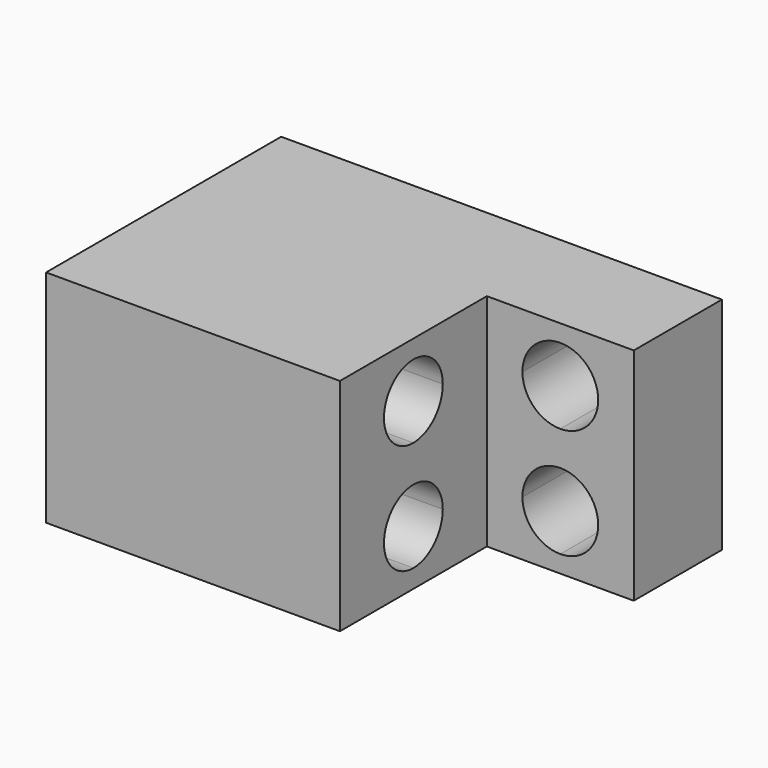
from build123d import *

# Parameters (mm, degrees)
F0_W     = 12.7
F0_H     = 9.525
F0_H_2   = 19.05
F1_DEPTH = 25.4
F2_W     = 25.4
F2_H     = 31.75
F3_DEPTH = 38.101
F5_DEPTH = 19.051
F7_DEPTH = 50.801


with BuildPart() as f1:
    # F0 (on Front) → F1 (new body, symmetric)
    with BuildSketch(Plane.XZ):
        with Locations((31.75, -14.2875)):
            Rectangle(F0_W, F0_H)
        with Locations((19.05, -14.2875)):
            Rectangle(F0_W, F0_H)
        with Locations((31.75, 0)):
            Rectangle(F0_W, F0_H_2)
        Polygon((-38.1, -19.05), (12.7, -19.05), (12.7, -9.525), (12.7, 9.525), (12.7, 19.05), (-38.1, 19.05), align=None)
        with Locations((31.75, 14.2875)):
            Rectangle(F0_W, F0_H)
        with Locations((19.05, 14.2875)):
            Rectangle(F0_W, F0_H)
        with Locations((19.05, 0)):
            Rectangle(F0_W, F0_H_2)
    extrude(amount=F1_DEPTH, both=True)

    # F2 (on face) → F3 (cut, through all)
    with BuildSketch(Plane.XY.offset(19.05)):
        with Locations((25.4, -9.525)):
            Rectangle(F2_W, F2_H)
    extrude(amount=-F3_DEPTH, mode=Mode.SUBTRACT)

    # F4 (on face) → F5 (cut, through all)
    with BuildSketch(Plane.XZ.offset(-6.35)):
        with BuildLine():
            ThreePointArc((31.9484375, 9.525), (30.0304445624, 14.1554445624), (25.4, 16.0734375))
            Line((25.4, 16.0734375), (25.4, 9.525))
            Line((25.4, 9.525), (31.9484375, 9.525))
        make_face()
        with BuildLine():
            ThreePointArc((31.9484375, -9.525), (30.0304445624, -4.8945554376), (25.4, -2.9765625))
            Line((25.4, -2.9765625), (25.4, -9.525))
            Line((25.4, -9.525), (31.9484375, -9.525))
        make_face()
        with BuildLine():
            Line((25.4, -9.525), (25.4, -2.9765625))
            ThreePointArc((25.4, -2.9765625), (20.7695554376, -4.8945554376), (18.8515625, -9.525))
            Line((18.8515625, -9.525), (25.4, -9.525))
        make_face()
        with BuildLine():
            Line((25.4, 9.525), (25.4, 16.0734375))
            ThreePointArc((25.4, 16.0734375), (20.7695554376, 14.1554445624), (18.8515625, 9.525))
            Line((18.8515625, 9.525), (25.4, 9.525))
        make_face()
        with BuildLine():
            Line((31.9484375, 9.525), (25.4, 9.525))
            Line((25.4, 9.525), (25.4, 2.9765625))
            ThreePointArc((25.4, 2.9765625), (30.0304445624, 4.8945554376), (31.9484375, 9.525))
        make_face()
        with BuildLine():
            Line((25.4, 2.9765625), (25.4, 9.525))
            Line((25.4, 9.525), (18.8515625, 9.525))
            ThreePointArc((18.8515625, 9.525), (20.7695554376, 4.8945554376), (25.4, 2.9765625))
        make_face()
        with BuildLine():
            Line((31.9484375, -9.525), (25.4, -9.525))
            Line((25.4, -9.525), (25.4, -16.0734375))
            ThreePointArc((25.4, -16.0734375), (30.0304445624, -14.1554445624), (31.9484375, -9.525))
        make_face()
        with BuildLine():
            Line((25.4, -16.0734375), (25.4, -9.525))
            Line((25.4, -9.525), (18.8515625, -9.525))
            ThreePointArc((18.8515625, -9.525), (20.7695554376, -14.1554445624), (25.4, -16.0734375))
        make_face()
    extrude(amount=-F5_DEPTH, mode=Mode.SUBTRACT)

    # F6 (on face) → F7 (cut, through all)
    with BuildSketch(Plane.YZ.offset(12.7)):
        with BuildLine():
            ThreePointArc((-3.175, 9.525), (-5.0348719395, 14.0151280605), (-9.525, 15.875))
            Line((-9.525, 15.875), (-9.525, 9.525))
            Line((-9.525, 9.525), (-3.175, 9.525))
        make_face()
        with BuildLine():
            ThreePointArc((-3.175, -9.525), (-5.0348719395, -5.0348719395), (-9.525, -3.175))
            Line((-9.525, -3.175), (-9.525, -9.525))
            Line((-9.525, -9.525), (-3.175, -9.525))
        make_face()
        with BuildLine():
            Line((-9.525, -9.525), (-9.525, -3.175))
            ThreePointArc((-9.525, -3.175), (-14.0151280605, -5.0348719395), (-15.875, -9.525))
            Line((-15.875, -9.525), (-9.525, -9.525))
        make_face()
        with BuildLine():
            Line((-9.525, 9.525), (-9.525, 15.875))
            ThreePointArc((-9.525, 15.875), (-14.0151280605, 14.0151280605), (-15.875, 9.525))
            Line((-15.875, 9.525), (-9.525, 9.525))
        make_face()
        with BuildLine():
            Line((-3.175, 9.525), (-9.525, 9.525))
            Line((-9.525, 9.525), (-9.525, 3.175))
            ThreePointArc((-9.525, 3.175), (-5.0348719395, 5.0348719395), (-3.175, 9.525))
        make_face()
        with BuildLine():
            Line((-9.525, 3.175), (-9.525, 9.525))
            Line((-9.525, 9.525), (-15.875, 9.525))
            ThreePointArc((-15.875, 9.525), (-14.0151280605, 5.0348719395), (-9.525, 3.175))
        make_face()
        with BuildLine():
            Line((-3.175, -9.525), (-9.525, -9.525))
            Line((-9.525, -9.525), (-9.525, -15.875))
            ThreePointArc((-9.525, -15.875), (-5.0348719395, -14.0151280605), (-3.175, -9.525))
        make_face()
        with BuildLine():
            Line((-9.525, -15.875), (-9.525, -9.525))
            Line((-9.525, -9.525), (-15.875, -9.525))
            ThreePointArc((-15.875, -9.525), (-14.0151280605, -14.0151280605), (-9.525, -15.875))
        make_face()
    extrude(amount=-F7_DEPTH, mode=Mode.SUBTRACT)


solid = f1.part
